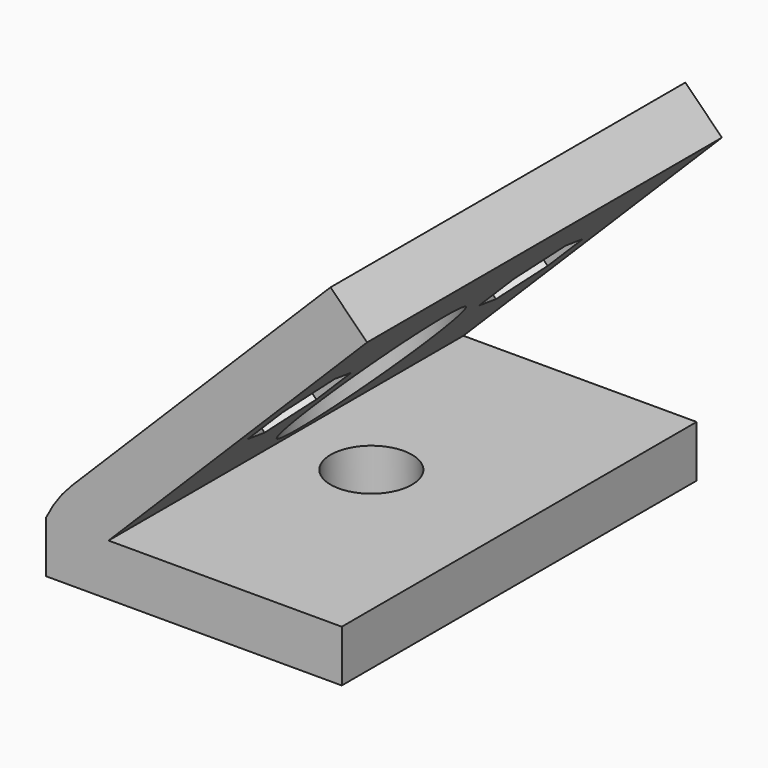
from build123d import *

# Parameters (mm, degrees)
F1_DEPTH = 30
F2_R     = 2.75
F3_DEPTH = 3.5
F4_R     = 5
F5_DEPTH = 16.7248737342
F6_R     = 1.6
F7_DEPTH = 3.5
F8_DEPTH = 2


with BuildPart() as f1:
    # F0 (on Front) → F1 (new body)
    with BuildSketch(Plane.XZ):
        Polygon((0, 3.5), (0, 0), (20, 0), (20, 3.5), (4.2248737342, 3.5), align=None)
        with BuildLine():
            ThreePointArc((1.75, 5.9748737342), (0.7696146381, 4.8119555711), (0, 3.5))
            Line((0, 3.5), (4.2248737342, 3.5))
            Line((4.2248737342, 3.5), (1.75, 5.9748737342))
        make_face()
        Polygon((1.75, 5.9748737342), (4.2248737342, 3.5), (21.7124208231, 20.987547089), (19.237547089, 23.4624208231), align=None)
    extrude(amount=F1_DEPTH)

    # F2 (on face) → F3 (cut, through all)
    with BuildSketch(Plane(origin=(0, 0, 0), x_dir=(1, 0, 0), z_dir=(0, 0, -1))):
        with Locations((10, 15)):
            Circle(F2_R)
    extrude(amount=-F3_DEPTH, mode=Mode.SUBTRACT)

    # F4 (on face) → F5 (cut, up to face)
    with BuildSketch(Plane.XY.offset(3.5)):
        with Locations((10, -15)):
            Circle(F4_R)
    extrude(amount=F5_DEPTH, mode=Mode.SUBTRACT)

    # F6 (on face) → F7 (cut, through all)
    with BuildSketch(Plane(origin=(0.3624368671, 0, -0.3624368671), x_dir=(0, 1, 0), z_dir=(0.7071067812, 0, -0.7071067812))):
        with Locations((-5.221, 17.8278737342)):
            Circle(F6_R)
        with Locations((-24.779, 17.8278737342)):
            Circle(F6_R)
    extrude(amount=-F7_DEPTH, mode=Mode.SUBTRACT)

    # F6 (on face) → F8 (cut)
    with BuildSketch(Plane(origin=(0.3624368671, 0, -0.3624368671), x_dir=(0, 1, 0), z_dir=(0.7071067812, 0, -0.7071067812))):
        Polygon((-21.879, 19.5021895148), (-24.779, 21.1765052955), (-27.679, 19.5021895148), (-27.679, 16.1535579535), (-24.779, 14.4792421729), (-21.879, 16.1535579535), align=None)
        with Locations((-24.779, 17.8278737342)):
            Circle(F6_R, mode=Mode.SUBTRACT)
        Polygon((-8.121, 16.1535579535), (-5.221, 14.4792421729), (-2.321, 16.1535579535), (-2.321, 19.5021895148), (-5.221, 21.1765052955), (-8.121, 19.5021895148), align=None)
        with Locations((-5.221, 17.8278737342)):
            Circle(F6_R, mode=Mode.SUBTRACT)
    extrude(amount=-F8_DEPTH, mode=Mode.SUBTRACT)


solid = f1.part
